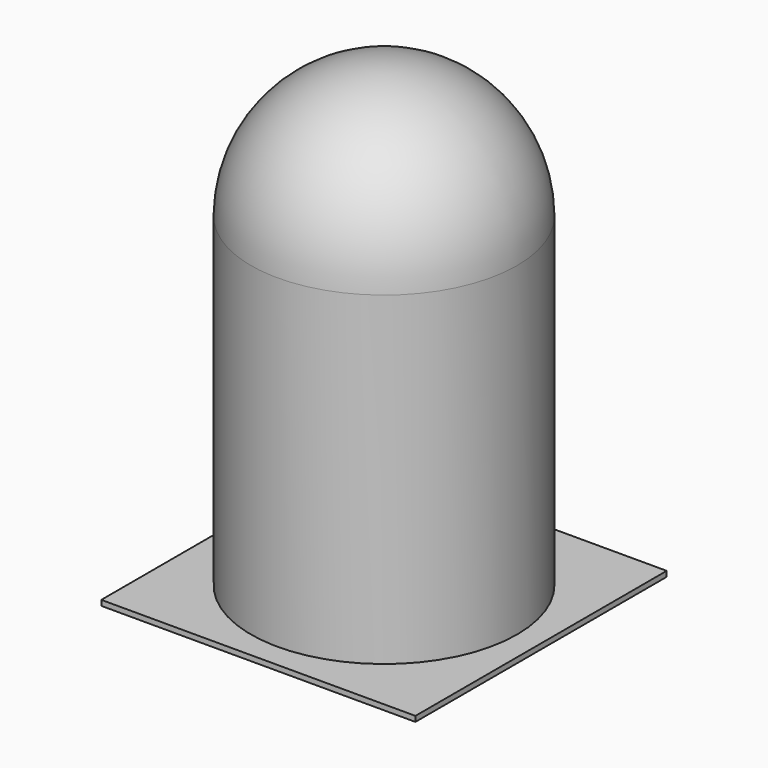
from build123d import *

# Parameters (mm, degrees)
F0_W     = 5.9
F0_H     = 5.9
F0_R     = 2.5
F1_DEPTH = 0.1
F2_DEPTH = 8.7
F3_R     = 2.5


with BuildPart() as f1:
    # F0 (on Top) → F1 (new body)
    with BuildSketch(Plane.XY):
        Rectangle(F0_W, F0_H)
        Circle(F0_R, mode=Mode.SUBTRACT)
    extrude(amount=F1_DEPTH)

    # F0 (on Top) → F2 (join)
    with BuildSketch(Plane.XY):
        Circle(F0_R)
    extrude(amount=F2_DEPTH)

    # F3
    f3_edges = [f1.edges().sort_by_distance(p)[0] for p in [
        (-2.5, 0, 8.7),
    ]]
    fillet(f3_edges, radius=F3_R)


solid = f1.part
